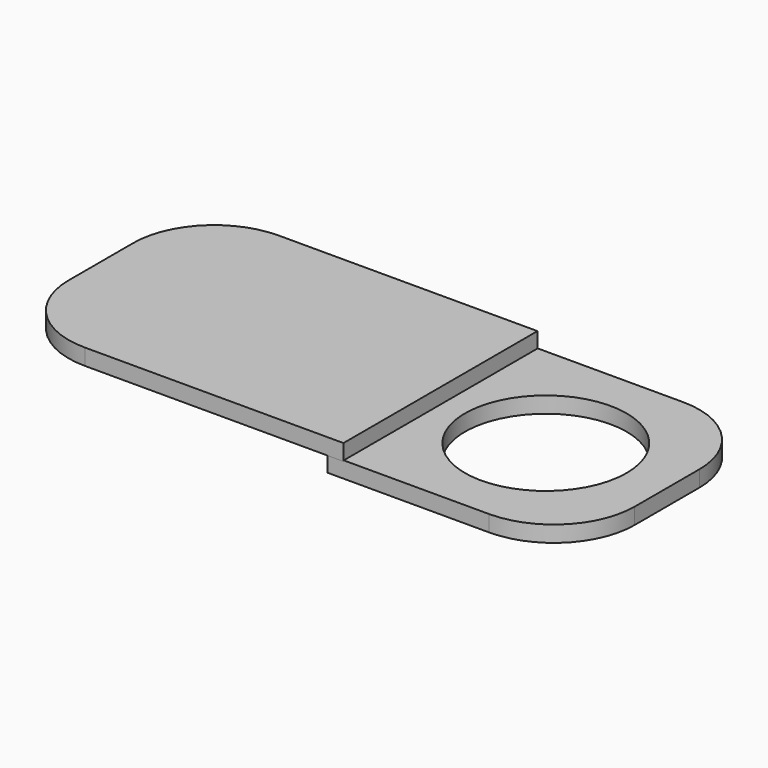
from build123d import *

# Parameters (mm, degrees)
SKETCH_W          = 3
SKETCH_H          = 3
SKETCH_R          = 1
PAD_DEPTH         = 0.2
SKETCH001_W       = 3
SKETCH001_H       = 0.2
PAD001_DEPTH      = 4
PAD001_DEPTH_BACK = 0.2
FILLET_R          = 1


with BuildPart() as part:
    # Sketch → Pad (new body)
    with BuildSketch(Plane.XY):
        Rectangle(SKETCH_W, SKETCH_H)
        Circle(SKETCH_R, mode=Mode.SUBTRACT)
    extrude(amount=PAD_DEPTH)

    # Sketch001 (on Face4 of Pad) → Pad001 (join, two sides)
    with BuildSketch(Plane(origin=(-1.5, 0, 0), x_dir=(0, -1, 0), z_dir=(-1, 0, 0))) as pad001_sk:
        with Locations((0.004044, 0.29)):
            Rectangle(SKETCH001_W, SKETCH001_H)
    extrude(amount=PAD001_DEPTH)
    extrude(pad001_sk.sketch, amount=-PAD001_DEPTH_BACK)

    # Fillet
    fillet_edges = [part.edges().sort_by_distance(p)[0] for p in [
        (1.5, -1.5, 0.1),
        (1.5, 1.5, 0.1),
        (-5.5, -1.504044, 0.29),
        (-5.5, 1.495956, 0.29),
    ]]
    fillet(fillet_edges, radius=FILLET_R)


solid = part.part
